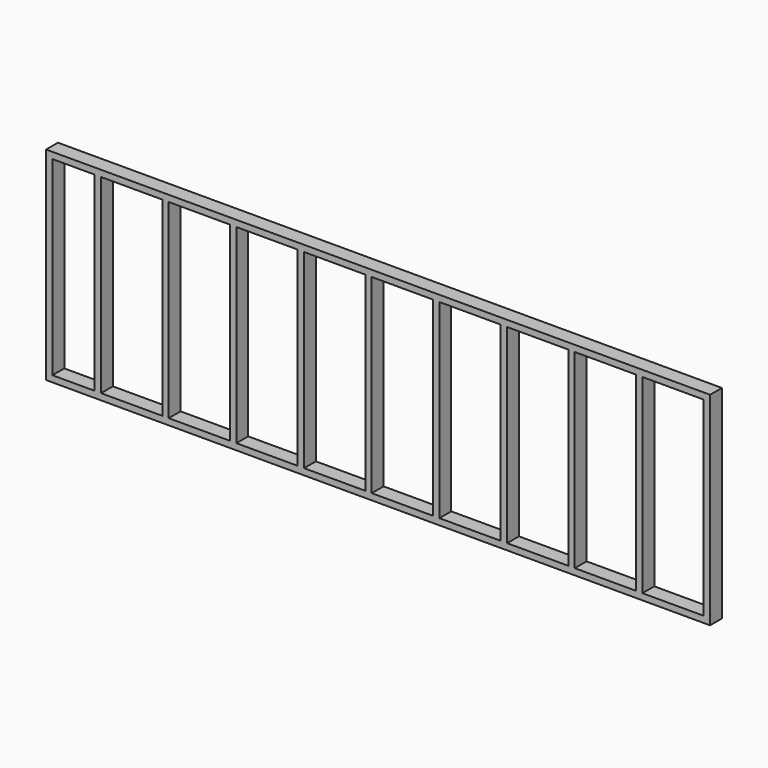
from build123d import *

# Parameters (mm, degrees)
F0_W     = 3987.8
F0_H     = 88.9
F1_DEPTH = 38.1
F2_W     = 38.1
F2_H     = 88.9
F3_DEPTH = 1143
F4_W     = 3987.8
F4_H     = 38.1
F5_DEPTH = 88.9


with BuildPart() as f1:
    # F0 (on Top) → F1 (new body)
    with BuildSketch(Plane.XY):
        Rectangle(F0_W, F0_H)
    extrude(amount=F1_DEPTH)

    # F2 (on face) → F3 (join)
    with BuildSketch(Plane.XY.offset(38.1)):
        with Locations((1974.85, 0)):
            Rectangle(F2_W, F2_H)
        with Locations((1568.45, 0)):
            Rectangle(F2_W, F2_H)
        with Locations((1162.05, 0)):
            Rectangle(F2_W, F2_H)
        with Locations((755.65, 0)):
            Rectangle(F2_W, F2_H)
        with Locations((349.25, 0)):
            Rectangle(F2_W, F2_H)
        with Locations((-57.15, 0)):
            Rectangle(F2_W, F2_H)
        with Locations((-463.55, 0)):
            Rectangle(F2_W, F2_H)
        with Locations((-869.95, 0)):
            Rectangle(F2_W, F2_H)
        with Locations((-1276.35, 0)):
            Rectangle(F2_W, F2_H)
        with Locations((-1974.85, 0)):
            Rectangle(F2_W, F2_H)
        with Locations((-1682.75, 0)):
            Rectangle(F2_W, F2_H)
    extrude(amount=F3_DEPTH)

    # F4 (on face) → F5 (join)
    with BuildSketch(Plane.XZ.offset(44.45)):
        with Locations((0, 1200.15)):
            Rectangle(F4_W, F4_H)
    extrude(amount=-F5_DEPTH)


solid = f1.part
